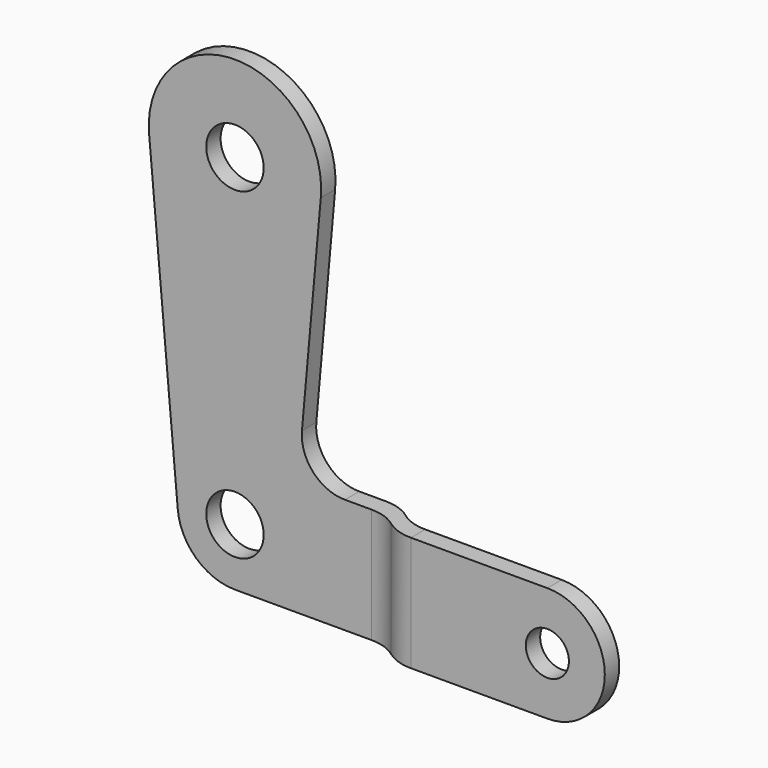
from build123d import *

# Parameters (mm, degrees)
F0_R     = 4
F1_DEPTH = 2.5
F3_DEPTH = 8
F5_R     = 3
F6_DEPTH = 2.5


with BuildPart() as f1:
    # F0 (on Front) → F1 (new body)
    with BuildSketch(Plane.XZ):
        with BuildLine():
            ThreePointArc((-7.9683323844, -0.7111111111), (-5.3995884617, -5.902918299), (0, -8))
            Line((0, -8), (19, -8))
            Line((19, -8), (19, 8))
            Line((19, 8), (15.3050286651, 8))
            ThreePointArc((15.3050286651, 8), (10.8778399408, 9.9503086537), (9.3287793768, 14.5333333333))
            Line((9.3287793768, 14.5333333333), (11.9524985765, 43.9333333333))
            ThreePointArc((11.9524985765, 43.9333333333), (0, 57), (-11.9524985765, 43.9333333333))
            Line((-11.9524985765, 43.9333333333), (-7.9683323844, -0.7111111111))
        make_face()
        Circle(F0_R, mode=Mode.SUBTRACT)
        with Locations((0, 45)):
            Circle(F0_R, mode=Mode.SUBTRACT)
    extrude(amount=F1_DEPTH)

    # F2 (on Top) → F3 (join, symmetric)
    with BuildSketch(Plane.XY):
        with BuildLine():
            Line((19, 0), (19, -2.5))
            ThreePointArc((19, -2.5), (20.9764235376, -2.8207293872), (22.75, -3.75))
            ThreePointArc((22.75, -3.75), (24.5235764624, -4.6792706128), (26.5, -5))
            Line((26.5, -5), (26.5, -2.5))
            ThreePointArc((26.5, -2.5), (24.5235764624, -2.1792706128), (22.75, -1.25))
            ThreePointArc((22.75, -1.25), (20.9764235376, -0.3207293872), (19, 0))
        make_face()
    extrude(amount=F3_DEPTH, both=True)


with BuildPart() as f6:
    # F5 (on offset) → F6 (new body)
    with BuildSketch(Plane.XZ.offset(5)):
        with BuildLine():
            Line((45.5, 8), (26.5, 8))
            Line((26.5, 8), (26.5, -8))
            Line((26.5, -8), (45.5, -8))
            ThreePointArc((45.5, -8), (53.5, 0), (45.5, 8))
        make_face()
        with Locations((45.5, 0)):
            Circle(F5_R, mode=Mode.SUBTRACT)
    extrude(amount=-F6_DEPTH)


solid = Compound([f1.part, f6.part])
